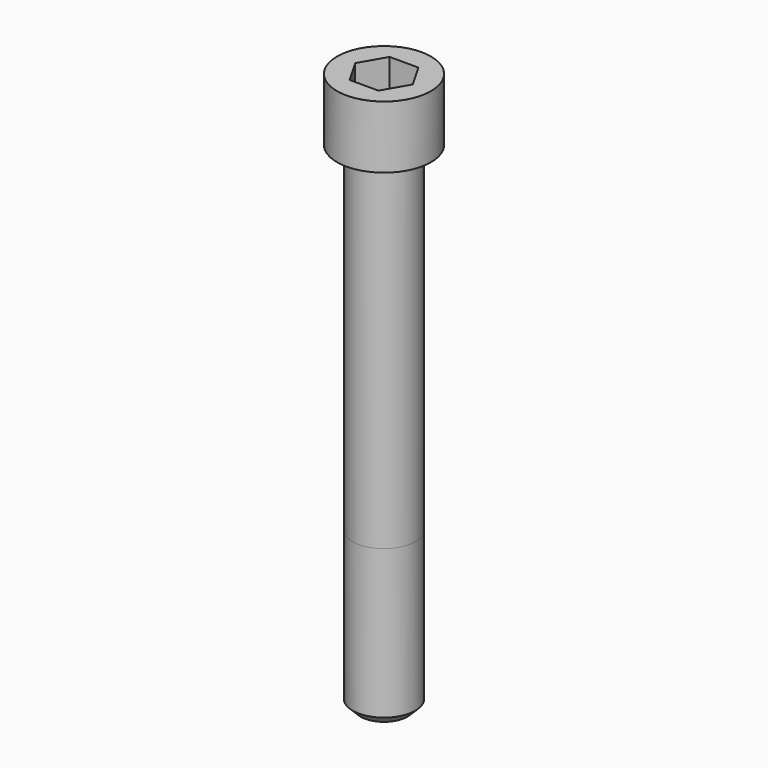
from build123d import *

# Parameters (mm, degrees)
POCKET_DEPTH = 19.15


with BuildPart() as part:
    # Sketch → Revolve (revolve)
    with BuildSketch(Plane.YZ):
        with BuildLine():
            Line((11.999, 0), (18, 0))
            Line((18, 0), (18, 23.97229))
            ThreePointArc((18, 23.97229), (17.991884, 23.991884), (17.97229, 24))
            Line((17.97229, 24), (0, 24))
            Line((0, -190), (0, 24))
            Line((9, -190), (0, -190))
            Line((12, -187), (9, -190))
            Line((12, -130), (12, -187))
            Line((11.999, 0), (12, -130))
        make_face()
    revolve(axis=Axis((0, 0, 0), (0, 0, 1)))

    # Sketch001 → Pocket (cut)
    with BuildSketch(Plane.XY.offset(24)):
        Polygon((11.056258, 0), (5.528129, 9.575), (-5.528129, 9.575), (-11.056258, 0), (-5.528129, -9.575), (5.528129, -9.575), align=None)
    extrude(amount=-POCKET_DEPTH, mode=Mode.SUBTRACT)


solid = part.part
